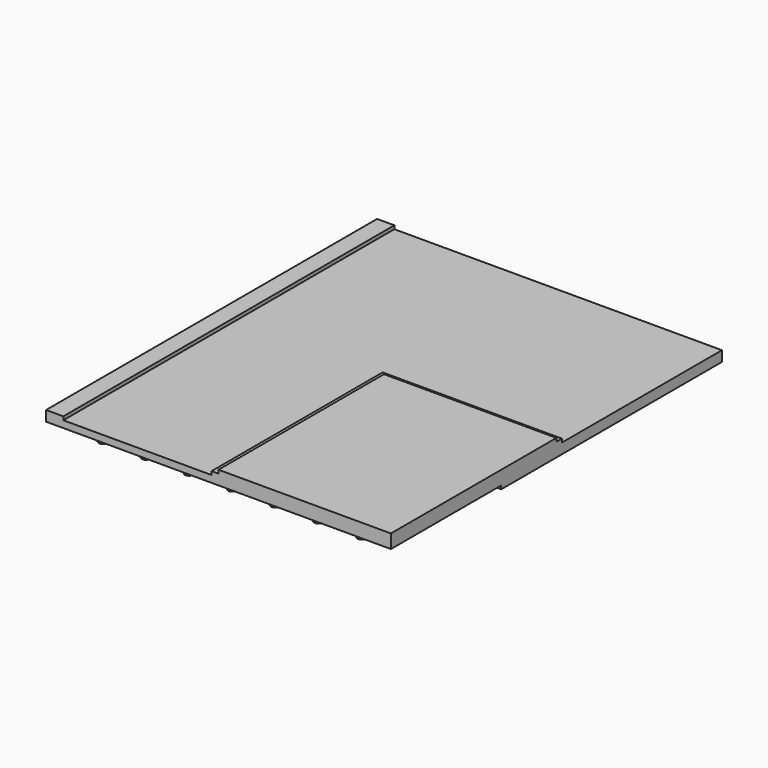
from build123d import *

# Parameters (mm, degrees)
F0_W      = 2540
F0_H      = 3048
F1_DEPTH  = 25.4
F1_FACE_W = 2540
F1_FACE_H = 3048
F2_DEPTH  = 25.4
F3_W      = 127
F3_H      = 1016
F3_H_2    = 2032
F3_W_2    = 1320.8
F3_H_3    = 1574.8
F4_DEPTH  = 25.4
F5_W      = 2540
F5_H      = 2032
F6_DEPTH  = 25.4
F7_W      = 381
F7_H      = 838.2
F8_DEPTH  = 25.4
F9_W      = 1270
F9_H      = 1524
F10_DEPTH = 25.4
F11_R     = 31.75
F12_DEPTH = 76.2


with BuildPart() as f1:
    # F0 (on Top) → F1 (new body)
    with BuildSketch(Plane.XY):
        with Locations((1270, 1524)):
            Rectangle(F0_W, F0_H)
    extrude(amount=F1_DEPTH)

    # F1_face (on face) → F2 (join)
    with BuildSketch(Plane(origin=(1270, 1524, 25.4), x_dir=(1, 0, 0), z_dir=(0, 0, 1))):
        Rectangle(F1_FACE_W, F1_FACE_H)
    extrude(amount=F2_DEPTH)

    # F3 (on face) → F4 (join)
    with BuildSketch(Plane.XY.offset(50.8)):
        with Locations((63.5, 2540)):
            Rectangle(F3_W, F3_H)
        with Locations((63.5, 1016)):
            Rectangle(F3_W, F3_H_2)
        with Locations((1879.6, 787.4)):
            Rectangle(F3_W_2, F3_H_3)
    extrude(amount=F4_DEPTH)

    # F5 (on face) → F6 (join)
    with BuildSketch(Plane(origin=(0, 0, 0), x_dir=(1, 0, 0), z_dir=(0, 0, -1))):
        with Locations((1270, -2032)):
            Rectangle(F5_W, F5_H)
        with Locations((1270, -2032)):
            Rectangle(F5_W, F5_H)
    extrude(amount=F6_DEPTH)

    # F7 (on face) → F8 (join)
    with BuildSketch(Plane(origin=(0, 0, -25.4), x_dir=(1, 0, 0), z_dir=(0, 0, -1))):
        with Locations((190.5, -2628.9)):
            Rectangle(F7_W, F7_H)
        with Locations((190.5, -2628.9)):
            Rectangle(F7_W, F7_H)
    extrude(amount=F8_DEPTH)

    # F9 (on face) → F10 (join)
    with BuildSketch(Plane.XY.offset(76.2)):
        with Locations((1905, 762)):
            Rectangle(F9_W, F9_H)
    extrude(amount=F10_DEPTH)

    # F11 (on Top) → F12 (join)
    with BuildSketch(Plane.XY):
        with Locations((2222.5, 2667)):
            Circle(F11_R)
        with Locations((2222.5, 2032)):
            Circle(F11_R)
        with Locations((2222.5, 1397)):
            Circle(F11_R)
        with Locations((2222.5, 762)):
            Circle(F11_R)
        with Locations((1905, 2667)):
            Circle(F11_R)
        with Locations((1905, 2032)):
            Circle(F11_R)
        with Locations((1905, 1397)):
            Circle(F11_R)
        with Locations((1905, 762)):
            Circle(F11_R)
        with Locations((1587.5, 2667)):
            Circle(F11_R)
        with Locations((1587.5, 2032)):
            Circle(F11_R)
        with Locations((1587.5, 1397)):
            Circle(F11_R)
        with Locations((1587.5, 762)):
            Circle(F11_R)
        with Locations((1270, 2667)):
            Circle(F11_R)
        with Locations((1270, 2032)):
            Circle(F11_R)
        with Locations((1270, 1397)):
            Circle(F11_R)
        with Locations((1270, 762)):
            Circle(F11_R)
        with Locations((952.5, 2667)):
            Circle(F11_R)
        with Locations((952.5, 2032)):
            Circle(F11_R)
        with Locations((952.5, 1397)):
            Circle(F11_R)
        with Locations((952.5, 762)):
            Circle(F11_R)
        with Locations((635, 2667)):
            Circle(F11_R)
        with Locations((635, 2032)):
            Circle(F11_R)
        with Locations((635, 1397)):
            Circle(F11_R)
        with Locations((635, 762)):
            Circle(F11_R)
        with Locations((317.5, 2032)):
            Circle(F11_R)
        with Locations((317.5, 1397)):
            Circle(F11_R)
        with Locations((317.5, 762)):
            Circle(F11_R)
        with Locations((317.5, 127)):
            Circle(F11_R)
        with Locations((317.5, 304.8)):
            Circle(F11_R)
        with Locations((317.5, 482.6)):
            Circle(F11_R)
        with Locations((635, 127)):
            Circle(F11_R)
        with Locations((635, 304.8)):
            Circle(F11_R)
        with Locations((635, 482.6)):
            Circle(F11_R)
        with Locations((952.5, 127)):
            Circle(F11_R)
        with Locations((952.5, 304.8)):
            Circle(F11_R)
        with Locations((952.5, 482.6)):
            Circle(F11_R)
        with Locations((1270, 127)):
            Circle(F11_R)
        with Locations((1270, 304.8)):
            Circle(F11_R)
        with Locations((1270, 482.6)):
            Circle(F11_R)
        with Locations((1587.5, 127)):
            Circle(F11_R)
        with Locations((1587.5, 304.8)):
            Circle(F11_R)
        with Locations((1587.5, 482.6)):
            Circle(F11_R)
        with Locations((1905, 127)):
            Circle(F11_R)
        with Locations((1905, 304.8)):
            Circle(F11_R)
        with Locations((1905, 482.6)):
            Circle(F11_R)
        with Locations((2222.5, 127)):
            Circle(F11_R)
        with Locations((2222.5, 304.8)):
            Circle(F11_R)
        with Locations((2222.5, 482.6)):
            Circle(F11_R)
    extrude(amount=-F12_DEPTH)


solid = f1.part
